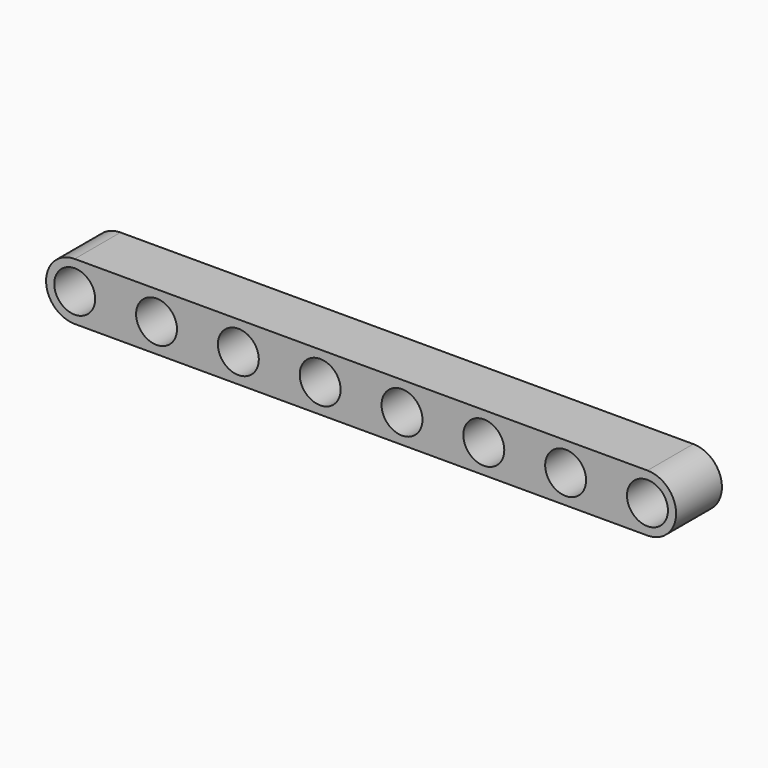
from build123d import *

# Parameters (mm, degrees)
F0_R     = 2.5
F1_DEPTH = 7


with BuildPart() as f1:
    # F0 (on Front) → F1 (new body)
    with BuildSketch(Plane.XZ):
        with BuildLine():
            Line((35, 3.5), (-35, 3.5))
            ThreePointArc((-35, 3.5), (-38.5, 0), (-35, -3.5))
            Line((-35, -3.5), (35, -3.5))
            ThreePointArc((35, -3.5), (38.5, 0), (35, 3.5))
        make_face()
        with Locations((-35, 0)):
            Circle(F0_R, mode=Mode.SUBTRACT)
        with Locations((-25, 0)):
            Circle(F0_R, mode=Mode.SUBTRACT)
        with Locations((-15, 0)):
            Circle(F0_R, mode=Mode.SUBTRACT)
        with Locations((-5, 0)):
            Circle(F0_R, mode=Mode.SUBTRACT)
        with Locations((5, 0)):
            Circle(F0_R, mode=Mode.SUBTRACT)
        with Locations((15, 0)):
            Circle(F0_R, mode=Mode.SUBTRACT)
        with Locations((25, 0)):
            Circle(F0_R, mode=Mode.SUBTRACT)
        with Locations((35, 0)):
            Circle(F0_R, mode=Mode.SUBTRACT)
    extrude(amount=F1_DEPTH)


solid = f1.part
